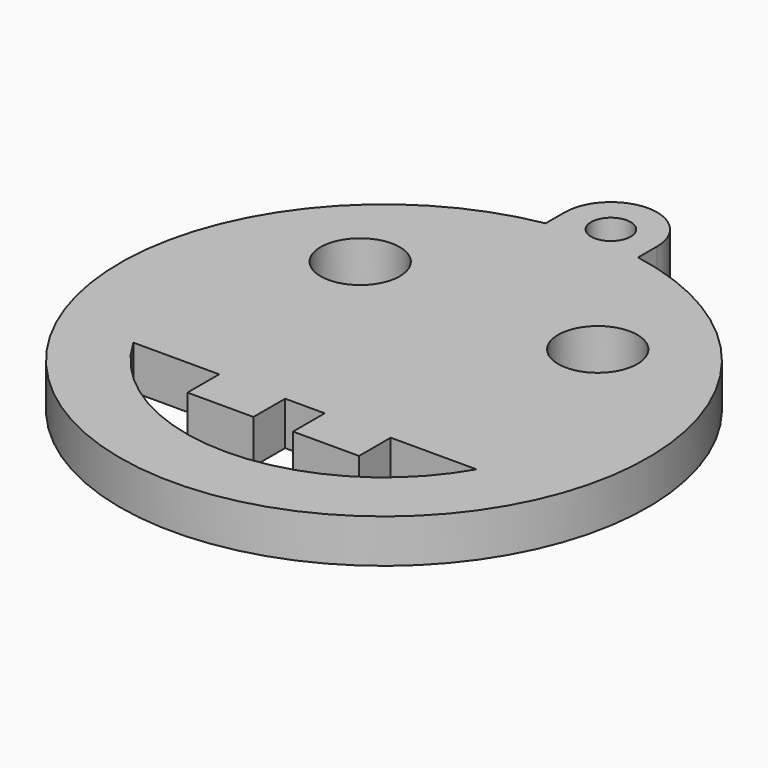
from build123d import *

# Parameters (mm, degrees)
EXTRUDE_DEPTH   = 3.3
SKETCH001_R     = 1.5
POCKET_DEPTH    = 3.301
SKETCH002_R     = 3
POCKET001_DEPTH = 5


with BuildPart() as part:
    # Sketch → Extrude (new body)
    with BuildSketch(Plane.XY):
        with BuildLine():
            ThreePointArc((3.5, 21.5), (0, 25), (-3.5, 21.5))
            Line((-3.5, 21.5), (-3.5, 19.691369))
            ThreePointArc((-3.5, 19.691369), (0, -20), (3.5, 19.691369))
            Line((3.5, 19.691369), (3.5, 21.5))
        make_face()
    extrude(amount=EXTRUDE_DEPTH)

    # Sketch001 (on Face6 of Extrude) → Pocket (cut, through all)
    with BuildSketch(Plane.XY.offset(3.3)):
        with Locations((0, 21.5)):
            Circle(SKETCH001_R)
    extrude(amount=-POCKET_DEPTH, mode=Mode.SUBTRACT)

    # Sketch002 (on Face6 of BaseFeature) → Pocket001 (cut)
    with BuildSketch(Plane.XY.offset(3.3)):
        with Locations((9, 9)):
            Circle(SKETCH002_R)
        with Locations((-9, 9)):
            Circle(SKETCH002_R)
        with BuildLine():
            ThreePointArc((-13, -7.483315), (0, -15), (13, -7.483315))
            Line((6.5, -7.483315), (13, -7.483315))
            Line((6.5, -10.483315), (6.5, -7.483315))
            Line((1.5, -10.483315), (6.5, -10.483315))
            Line((1.5, -7.483315), (1.5, -10.483315))
            Line((-1.5, -7.483315), (1.5, -7.483315))
            Line((-1.5, -10.483315), (-1.5, -7.483315))
            Line((-6.5, -10.483315), (-1.5, -10.483315))
            Line((-6.5, -7.483315), (-6.5, -10.483315))
            Line((-6.5, -7.483315), (-13, -7.483315))
        make_face()
    extrude(amount=-POCKET001_DEPTH, mode=Mode.SUBTRACT)


solid = part.part
